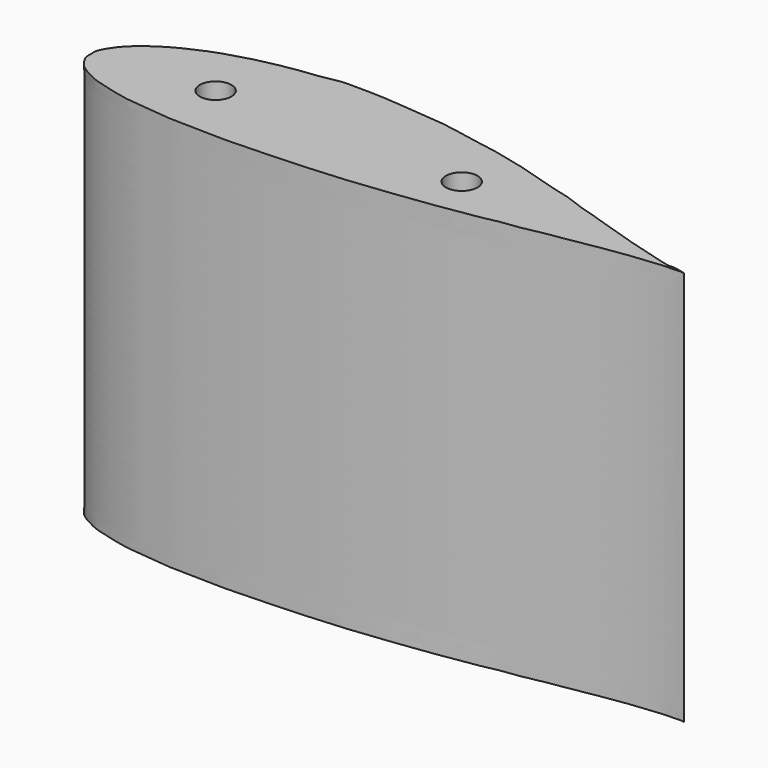
from build123d import *

# Parameters (mm, degrees)
F0_R     = 0.8
F1_DEPTH = 20


with BuildPart() as f1:
    # F0 (on Top) → F1 (new body)
    with BuildSketch(Plane.XY):
        with BuildLine():
            add(Edge.make_bspline(
                [(-16.95917, 15.497708), (-17.021606, 15.509201), (-17.205797, 15.525291), (-17.493084, 15.48795), (-17.835078, 15.506881), (-18.182835, 15.465158), (-18.582003, 15.434782), (-19.037413, 15.381588), (-19.553436, 15.331617), (-20.128648, 15.242706), (-20.752639, 15.152826), (-21.418756, 15.040265), (-22.123082, 14.895157), (-22.885129, 14.80318), (-23.682489, 14.656192), (-24.503965, 14.470143), (-25.376362, 14.403382), (-26.250287, 14.173233), (-27.179022, 14.071351), (-28.112922, 13.882102), (-29.070081, 13.800991), (-30.028597, 13.634021), (-31.00455, 13.542082), (-31.989606, 13.415536), (-32.970005, 13.327817), (-33.946866, 13.257461), (-34.914044, 13.217522), (-35.871149, 13.148259), (-36.809388, 13.137301), (-37.731157, 13.077312), (-38.625082, 13.077452), (-39.49608, 13.10952), (-40.325149, 13.125659), (-41.121461, 13.126562), (-41.865944, 13.22924), (-42.584373, 13.294843), (-43.252364, 13.345499), (-43.880665, 13.463262), (-44.44194, 13.609735), (-44.966338, 13.751136), (-45.437833, 13.883681), (-45.837959, 14.081029), (-46.19008, 14.273421), (-46.490423, 14.478232), (-46.703528, 14.725804), (-46.860519, 14.969703), (-46.986975, 15.223623), (-46.944448, 15.492351), (-46.995114, 15.775211), (-46.87266, 16.066061), (-46.697858, 16.358184), (-46.485974, 16.663126), (-46.19237, 16.962623), (-45.849079, 17.271639), (-45.436224, 17.56902), (-44.980443, 17.868168), (-44.456236, 18.146354), (-43.878924, 18.402952), (-43.256039, 18.679521), (-42.580079, 18.888424), (-41.866324, 19.102207), (-41.122269, 19.292957), (-40.32769, 19.431353), (-39.495139, 19.585597), (-38.613092, 19.643592), (-37.730787, 19.891274), (-36.803183, 19.815871), (-35.872571, 19.868997), (-34.92456, 19.733377), (-33.962027, 19.707377), (-32.982717, 19.587731), (-31.989339, 19.511947), (-31.009764, 19.260267), (-30.027878, 19.132943), (-29.056201, 18.935573), (-28.112541, 18.720593), (-27.180785, 18.458973), (-26.270964, 18.1877), (-25.384142, 17.897761), (-24.482126, 17.71598), (-23.690701, 17.345705), (-22.876698, 17.153756), (-22.142175, 16.875063), (-21.42607, 16.660707), (-20.764616, 16.432487), (-20.136451, 16.257379), (-19.55972, 16.086374), (-19.040193, 15.932406), (-18.580024, 15.810487), (-18.191528, 15.722535), (-17.831624, 15.601724), (-17.518295, 15.674884), (-16.76246, 15.461496), (-16.95917, 15.497708)],
                knots=[0, 0, 0, 0, 0.188457, 0.554931, 0.862522, 1.213222, 1.602951, 2.064032, 2.588371, 3.157986, 3.809641, 4.479755, 5.184422, 5.965937, 6.780751, 7.616359, 8.489636, 9.396738, 10.318318, 11.288471, 12.252181, 13.196299, 14.205273, 15.191612, 16.175579, 17.157698, 18.129515, 19.079408, 20.035684, 20.943335, 21.849596, 22.715907, 23.557868, 24.338134, 25.101153, 25.808888, 26.503138, 27.109014, 27.723463, 28.242717, 28.739756, 29.188269, 29.576456, 29.944995, 30.271269, 30.545592, 30.822643, 31.089576, 31.338921, 31.66856, 31.997805, 32.36928, 32.776266, 33.253364, 33.753442, 34.30083, 34.888014, 35.530999, 36.196429, 36.930348, 37.650551, 38.432577, 39.232356, 40.069803, 40.970502, 41.879407, 42.78711, 43.735456, 44.671506, 45.648851, 46.621722, 47.630697, 48.630814, 49.646611, 50.598396, 51.604278, 52.549496, 53.501008, 54.452521, 55.347813, 56.249173, 57.056662, 57.849042, 58.603412, 59.298671, 59.94741, 60.559517, 61.102316, 61.576396, 61.976791, 62.328399, 62.617895, 63.21164, 63.21164, 63.21164, 63.21164], degree=3))
        make_face()
        with Locations((-41.148432, 16.127862)):
            Circle(F0_R, mode=Mode.SUBTRACT)
        with Locations((-28.684305, 16.127862)):
            Circle(F0_R, mode=Mode.SUBTRACT)
    extrude(amount=F1_DEPTH)


solid = f1.part
